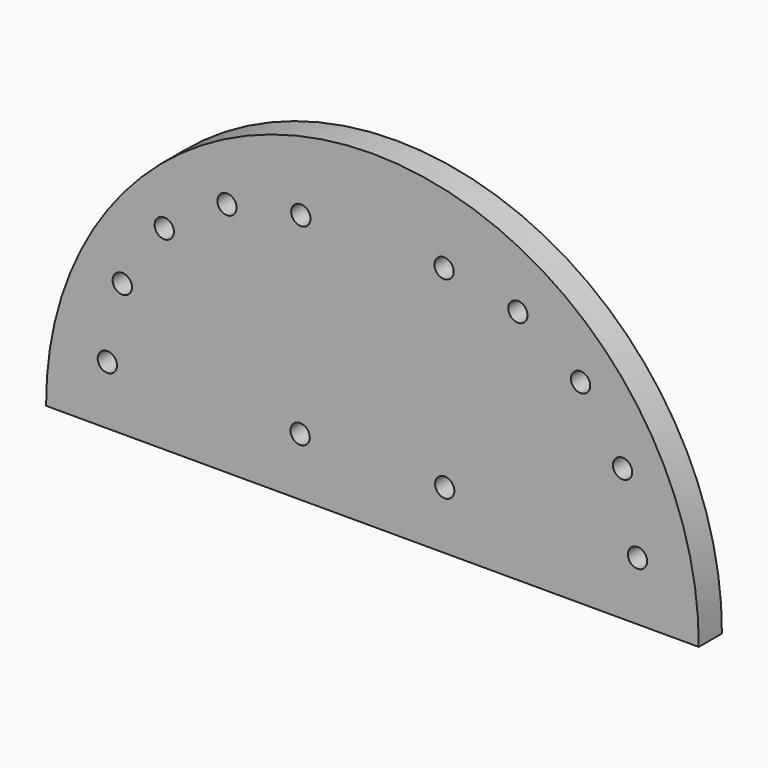
from build123d import *

# Parameters (mm, degrees)
F1_DEPTH = 4.7625
F3_D     = 6.35


with BuildPart() as f1:
    # F0 (on Front) → F1 (new body, symmetric)
    with BuildSketch(Plane.XZ):
        with BuildLine():
            ThreePointArc((107.490789, -0.614724), (0, 107.492547), (-107.490789, -0.614724))
            Line((-107.490789, -0.614724), (107.490789, -0.614724))
        make_face()
    extrude(amount=F1_DEPTH, both=True)

    # F3 (through all)
    with Locations(Plane.XZ.offset(4.7625)):
        with Locations((23.8125, 18.435276), (87.3125, 18.661174), (47.904196, 77.188074), (23.586602, 81.935276), (68.554047, 63.49629), (82.392403, 42.944376), (-23.8125, 18.435276), (-23.586602, 81.935276), (-47.904196, 77.188074), (-68.554047, 63.49629), (-82.392403, 42.944376), (-87.3125, 18.661174)):
            Hole(F3_D / 2)


solid = f1.part
